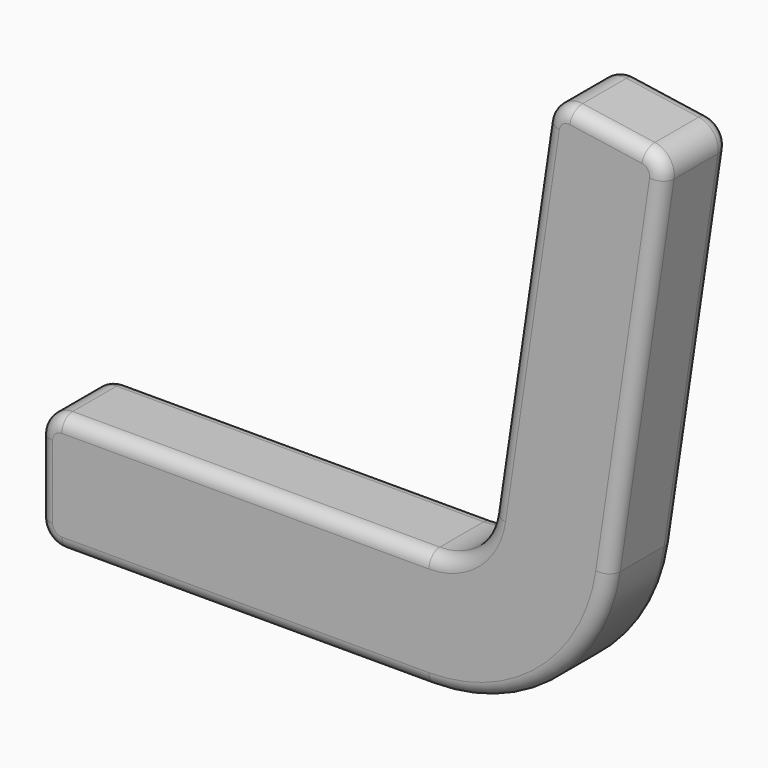
from build123d import *

# Parameters (mm, degrees)
F1_DEPTH = 18
F2_R     = 3


with BuildPart() as f1:
    # F0 (on Front) → F1 (new body)
    with BuildSketch(Plane.XZ):
        with BuildLine():
            ThreePointArc((-120, 5), (-118.535534, 1.464466), (-115, 0))
            Line((-115, 0), (-34.513279, 0))
            ThreePointArc((-34.513279, 0), (-8.382441, 9.715032), (5.055301, 34.141037))
            Line((5.055301, 34.141037), (16.844519, 113.759668))
            ThreePointArc((16.844519, 113.759668), (15.913712, 117.471576), (12.630817, 119.438111))
            Line((12.630817, 119.438111), (-3.196615, 121.781697))
            ThreePointArc((-3.196615, 121.781697), (-6.908523, 120.85089), (-8.875058, 117.567995))
            Line((-8.875058, 117.567995), (-20.664276, 37.949363))
            ThreePointArc((-20.664276, 37.949363), (-25.367486, 29.400261), (-34.513279, 26))
            Line((-34.513279, 26), (-115, 26))
            ThreePointArc((-115, 26), (-118.535534, 24.535534), (-120, 21))
            Line((-120, 21), (-120, 5))
        make_face()
    extrude(amount=F1_DEPTH)

    # F2
    f2_edges = [f1.edges().sort_by_distance(p)[0] for p in [
        (-14.769667, -18, 77.758679),
        (-25.367486, -18, 29.400261),
        (-74.75664, -18, 26),
        (-118.535534, -18, 24.535534),
        (-120, -18, 13),
        (-118.535534, -18, 1.464466),
        (-74.75664, -18, 0),
        (-8.382441, -18, 9.715032),
        (10.94991, -18, 73.950353),
        (15.913712, -18, 117.471576),
        (4.717101, -18, 120.609904),
        (-6.908523, -18, 120.85089),
        (-14.769667, 0, 77.758679),
        (-25.367486, 0, 29.400261),
        (-74.75664, 0, 26),
        (-118.535534, 0, 24.535534),
        (-120, 0, 13),
        (-118.535534, 0, 1.464466),
        (-74.75664, 0, 0),
        (-8.382441, 0, 9.715032),
        (10.94991, 0, 73.950353),
        (15.913712, 0, 117.471576),
        (4.717101, 0, 120.609904),
        (-6.908523, 0, 120.85089),
    ]]
    fillet(f2_edges, radius=F2_R)


solid = f1.part
